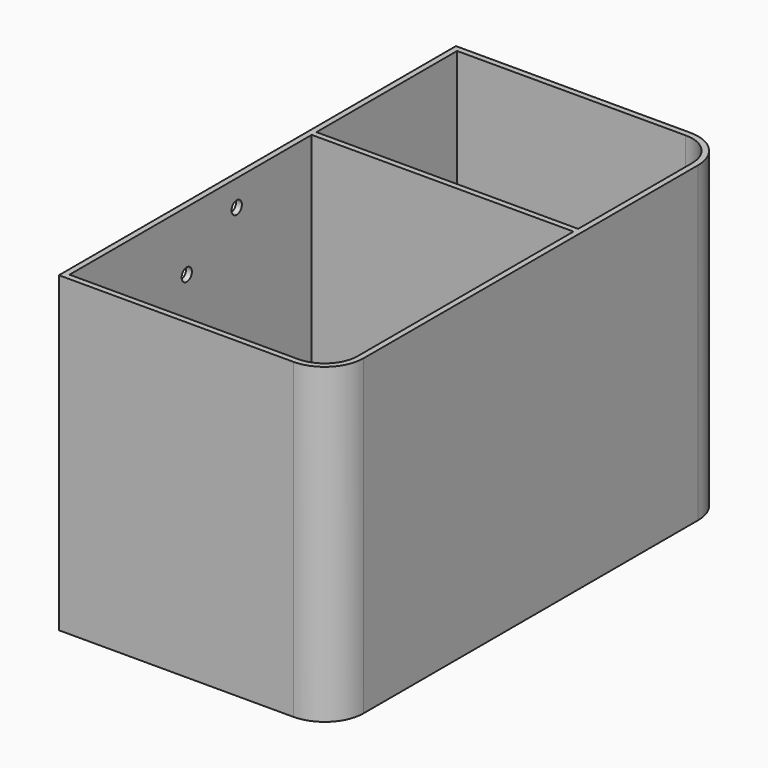
from build123d import *

# Parameters (mm, degrees)
PAD_DEPTH       = 80
POCKET_DEPTH    = 79.001
SKETCH002_R     = 1.65
POCKET001_DEPTH = 5


with BuildPart() as part:
    # Sketch → Pad (new body)
    with BuildSketch(Plane.XY):
        with BuildLine():
            Line((0, 63.5), (60, 63.5))
            ThreePointArc((70, 53.5), (67.071068, 60.571068), (60, 63.5))
            Line((70, 53.5), (70, -53.5))
            ThreePointArc((60, -63.5), (67.071068, -60.571068), (70, -53.5))
            Line((60, -63.5), (0, -63.5))
            Line((0, -63.5), (0, 63.5))
        make_face()
    extrude(amount=PAD_DEPTH)

    # Sketch001 → Pocket (cut, through all)
    with BuildSketch(Plane.XY.offset(1)):
        with BuildLine():
            Line((1.5, 62), (60, 62))
            ThreePointArc((68.5, 53.5), (66.010408, 59.510408), (60, 62))
            Line((68.5, 53.5), (68.5, 17))
            Line((68.5, 17), (1.5, 17))
            Line((1.5, 17), (1.5, 62))
        make_face()
        with BuildLine():
            Line((1.5, 15.5), (68.5, 15.5))
            Line((68.5, 15.5), (68.5, -53.5))
            ThreePointArc((60, -62), (66.010408, -59.510408), (68.5, -53.5))
            Line((60, -62), (1.5, -62))
            Line((1.5, -62), (1.5, 15.5))
        make_face()
    extrude(amount=POCKET_DEPTH, mode=Mode.SUBTRACT)

    # Sketch002 → Pocket001 (cut)
    with BuildSketch(Plane(origin=(0, 0, 0), x_dir=(0, -1, 0), z_dir=(-1, 0, 0))):
        with Locations((-50, 5)):
            Circle(SKETCH002_R)
        with Locations((50, 5)):
            Circle(SKETCH002_R)
        with Locations((8.5, 73.394079)):
            Circle(SKETCH002_R)
        with Locations((24.47625, 64.779078)):
            Circle(SKETCH002_R)
    extrude(amount=-POCKET001_DEPTH, mode=Mode.SUBTRACT)


solid = part.part
